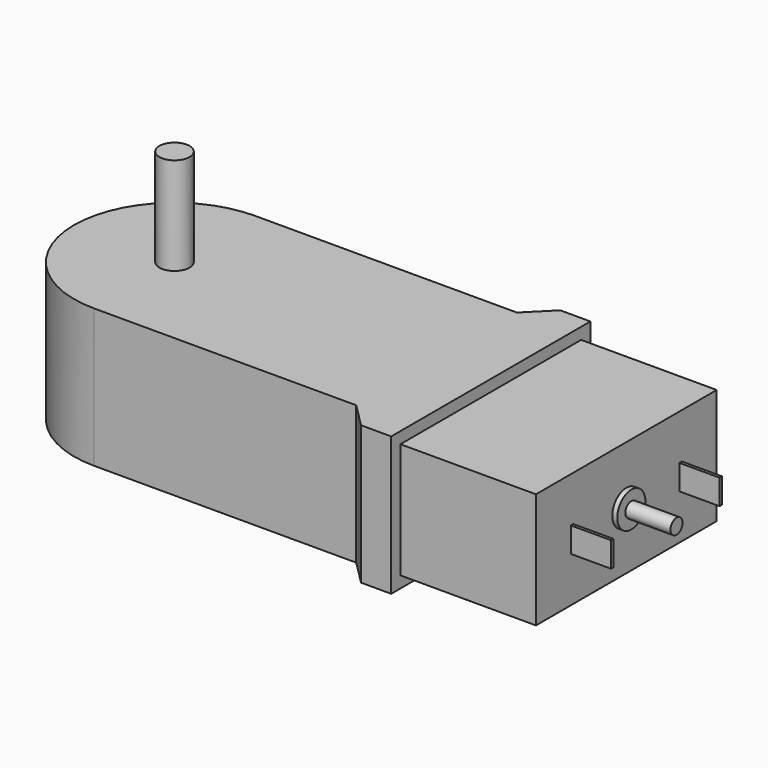
from build123d import *

# Parameters (mm, degrees)
F1_DEPTH  = 6.9
F2_R      = 1.5
F3_DEPTH  = 16.6
F4_W      = 13.5
F4_H      = 22.5
F5_DEPTH  = 5.75
F6_R      = 1.75
F7_DEPTH  = 0.5
F8_R      = 0.75
F9_DEPTH  = 4.5
F10_W     = 0.3
F10_H     = 2.5
F11_DEPTH = 4


with BuildPart() as f1:
    # F0 (on Top) → F1 (new body, symmetric)
    with BuildSketch(Plane.XY):
        with BuildLine():
            ThreePointArc((0, -10), (7.071068, -7.071068), (10, 0))
            ThreePointArc((10, 0), (7.071068, 7.071068), (0, 10))
            ThreePointArc((0, 10), (-10, 0), (0, -10))
        make_face()
        with BuildLine():
            ThreePointArc((0, 10), (7.071068, 7.071068), (10, 0))
            ThreePointArc((10, 0), (7.071068, -7.071068), (0, -10))
            Line((0, -10), (26.1, -10))
            Line((26.1, -10), (28.5, -12.4))
            Line((28.5, -12.4), (31.5, -12.4))
            Line((31.5, -12.4), (31.5, 0))
            Line((31.5, 0), (31.5, 12.4))
            Line((31.5, 12.4), (28.5, 12.4))
            Line((28.5, 12.4), (26.1, 10))
            Line((26.1, 10), (0, 10))
        make_face()
    extrude(amount=F1_DEPTH, both=True)

    # F2 (on Top) → F3 (join)
    with BuildSketch(Plane.XY):
        Circle(F2_R)
    extrude(amount=F3_DEPTH)

    # F4 (on Top) → F5 (join, symmetric)
    with BuildSketch(Plane.XY):
        with Locations((38.25, 0)):
            Rectangle(F4_W, F4_H)
    extrude(amount=F5_DEPTH, both=True)

    # F6 (on face) → F7 (join)
    with BuildSketch(Plane.YZ.offset(45)):
        Circle(F6_R)
    extrude(amount=F7_DEPTH)

    # F8 (on face) → F9 (join)
    with BuildSketch(Plane.YZ.offset(45.5)):
        Circle(F8_R)
    extrude(amount=F9_DEPTH)

    # F10 (on face) → F11 (join)
    with BuildSketch(Plane.YZ.offset(45)):
        with Locations((-6.75, 0)):
            Rectangle(F10_W, F10_H)
        with Locations((6.75, 0)):
            Rectangle(F10_W, F10_H)
    extrude(amount=F11_DEPTH)


solid = f1.part
